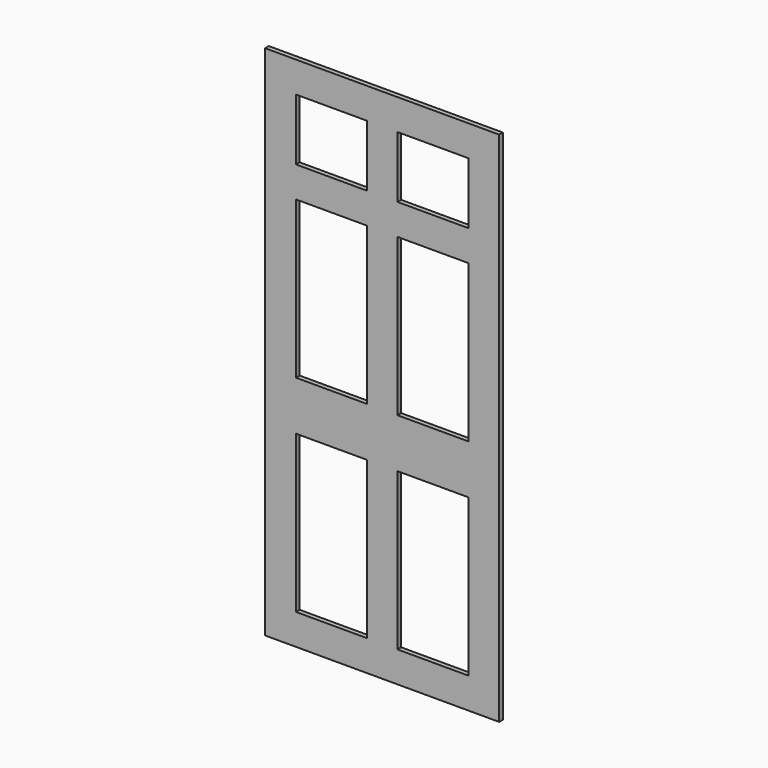
from build123d import *

# Parameters (mm, degrees)
F0_W     = 965.2
F0_H     = 2133.6
F0_W_2   = 292.1
F0_H_2   = 647.7
F0_H_3   = 254
F1_DEPTH = 19.05


with BuildPart() as f1:
    # F0 (on Front) → F1 (new body)
    with BuildSketch(Plane.XZ):
        Rectangle(F0_W, F0_H)
        with Locations((-209.55, -615.95)):
            Rectangle(F0_W_2, F0_H_2, mode=Mode.SUBTRACT)
        with Locations((209.55, -615.95)):
            Rectangle(F0_W_2, F0_H_2, mode=Mode.SUBTRACT)
        with Locations((-209.55, 234.95)):
            Rectangle(F0_W_2, F0_H_2, mode=Mode.SUBTRACT)
        with Locations((-209.55, 812.8)):
            Rectangle(F0_W_2, F0_H_3, mode=Mode.SUBTRACT)
        with Locations((209.55, 234.95)):
            Rectangle(F0_W_2, F0_H_2, mode=Mode.SUBTRACT)
        with Locations((209.55, 812.8)):
            Rectangle(F0_W_2, F0_H_3, mode=Mode.SUBTRACT)
    extrude(amount=F1_DEPTH)


solid = f1.part
